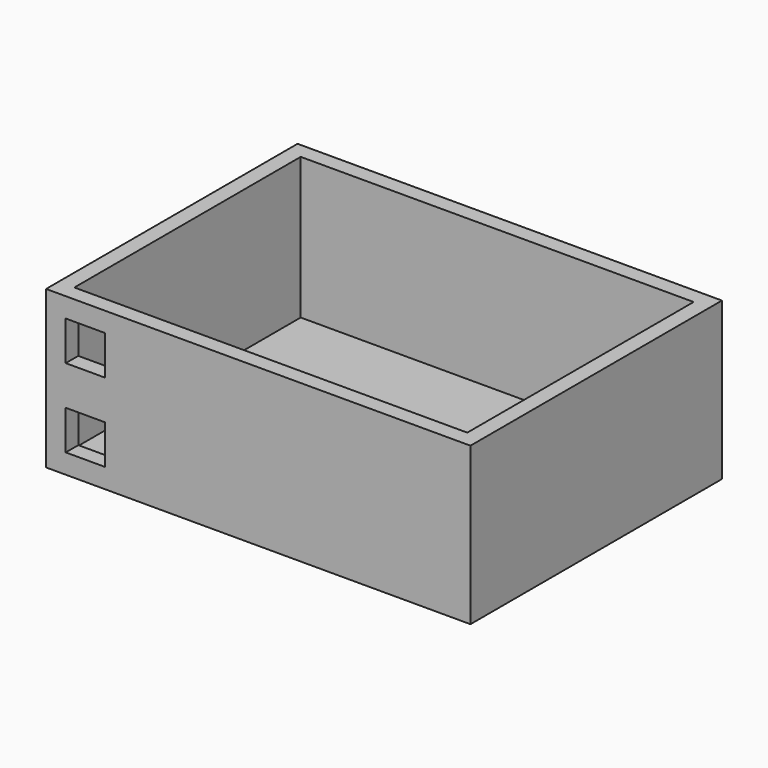
from build123d import *

# Parameters (mm, degrees)
F0_W     = 54
F0_H     = 40
F1_DEPTH = 20
F2_T     = -2
F3_W     = 5
F3_H     = 5
F4_DEPTH = 2


with BuildPart() as f1:
    # F0 (on Top) → F1 (new body)
    with BuildSketch(Plane.XY):
        Rectangle(F0_W, F0_H)
    extrude(amount=F1_DEPTH)

    # F2
    f2_openings = [f1.faces().sort_by_distance(p)[0] for p in [
        (0, 0, 20),
    ]]
    offset(amount=F2_T, openings=f2_openings)

    # F3 (on face) → F4 (cut)
    with BuildSketch(Plane.XZ.offset(20)):
        with Locations((-22, 15)):
            Rectangle(F3_W, F3_H)
        with Locations((-22, 5)):
            Rectangle(F3_W, F3_H)
    extrude(amount=-F4_DEPTH, mode=Mode.SUBTRACT)


solid = f1.part
